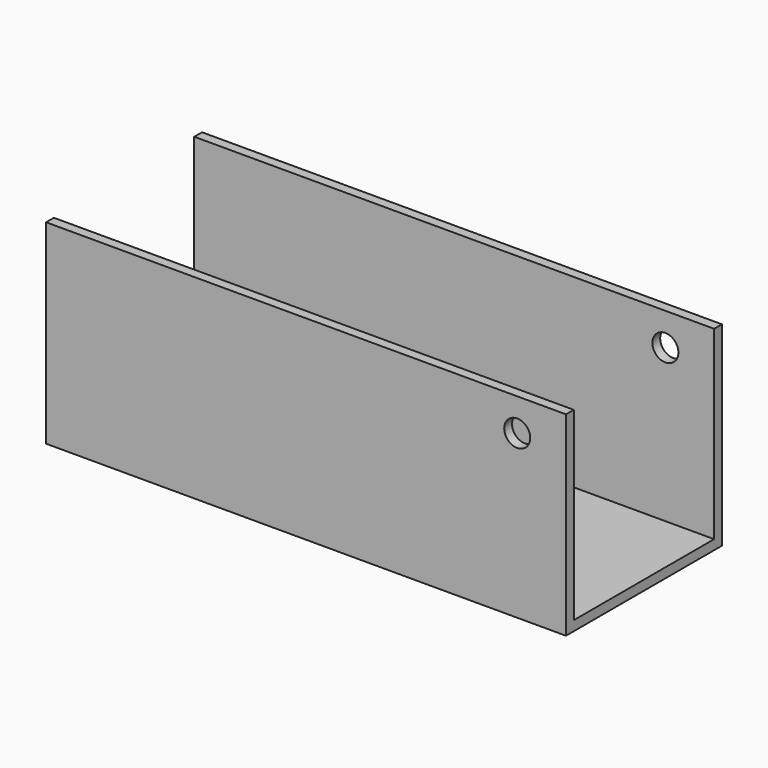
from build123d import *

# Parameters (mm, degrees)
F1_DEPTH = 160
F2_R     = 4
F3_DEPTH = 60.001


with BuildPart() as f1:
    # F0 (on Right) → F1 (new body)
    with BuildSketch(Plane.YZ):
        Polygon((-30, 30), (-30, -30), (30, -30), (30, 30), (27, 30), (27, -27), (-27, -27), (-27, 30), align=None)
    extrude(amount=F1_DEPTH)

    # F2 (on face) → F3 (cut, through all)
    with BuildSketch(Plane(origin=(0, 30, 0), x_dir=(-1, 0, 0), z_dir=(0, 1, 0))):
        with Locations((-145, 20)):
            Circle(F2_R)
    extrude(amount=-F3_DEPTH, mode=Mode.SUBTRACT)


solid = f1.part
